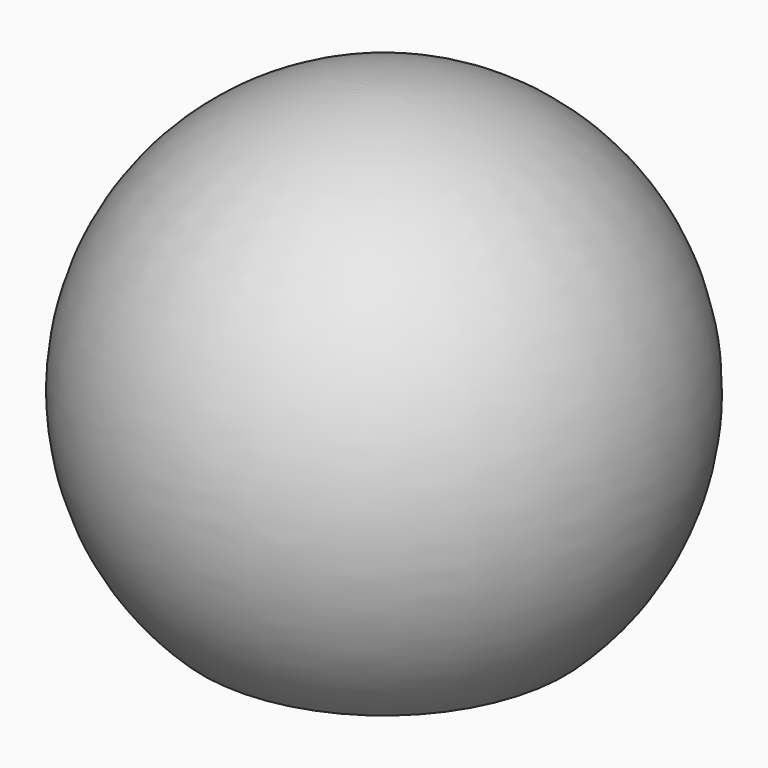
from build123d import *


with BuildPart() as f1:
    # F0 (on Front) → F1 (revolve)
    with BuildSketch(Plane.XZ):
        with BuildLine():
            Line((0, 0.834849), (0, 10))
            ThreePointArc((0, 10), (-9.292031, 3.695695), (-6.868102, -7.268368))
            Line((-6.868102, -7.268368), (-4, -7.268368))
            Line((-4, -7.268368), (-4, 0.834849))
            Line((-4, 0.834849), (-2.5, 0.834849))
            Line((-2.5, 0.834849), (-2.5, -7.268368))
            Line((-2.5, -7.268368), (0, -7.268368))
            Line((0, -7.268368), (0, 0.834849))
        make_face()
    revolve(axis=Axis((0, 0, 5.417424), (0, 0, -1)))


solid = f1.part
